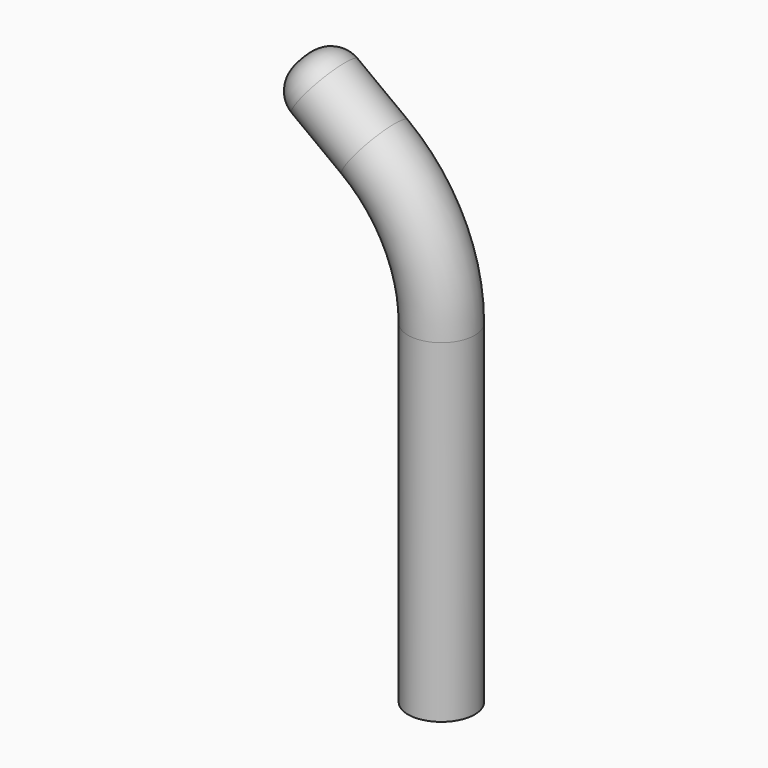
from build123d import *

# Parameters (mm, degrees)
F1_R = 2.5
F3_R = 2
F5_R = 1


with BuildPart() as f2:
    # F2: sweep along a path in F0
    with BuildLine(Plane.XZ) as f2_path:
        Line((0, 0), (0, 25))
        ThreePointArc((0, 25), (-1.3196601125, 30.5901699437), (-5, 35))
        Line((-5, 35), (-10.3333333333, 39))
    # F1 (on Top) → F2 (sweep)
    with BuildSketch(Plane.XY):
        Circle(F1_R)
    sweep(path=f2_path.line)

    # F3
    f3_edges = [f2.edges().sort_by_distance(p)[0] for p in [
        (-11.833333, 0, 37),
    ]]
    fillet(f3_edges, radius=F3_R)

    # F6: sweep along a path in F4
    with BuildLine(Plane.XZ) as f6_path:
        Line((0, 0), (0, 25))
        ThreePointArc((0, 25), (-1.3196601125, 30.5901699437), (-5, 35))
        Line((-5, 35), (-7.6666666667, 37))
    # F5 (on face) → F6 (sweep, cut)
    with BuildSketch(Plane(origin=(0, 0, 0), x_dir=(1, 0, 0), z_dir=(0, 0, -1))):
        Circle(F5_R)
    sweep(path=f6_path.line, mode=Mode.SUBTRACT)


solid = f2.part
